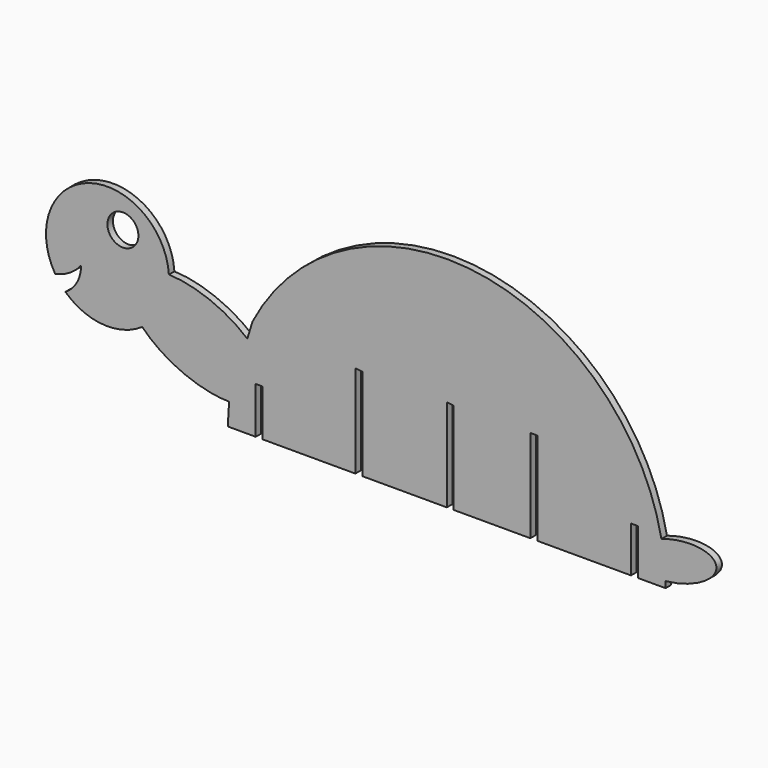
from build123d import *

# Parameters (mm, degrees)
F0_R     = 6.7218070384
F1_DEPTH = 3


with BuildPart() as f1:
    # F0 (on Front) → F1 (new body)
    with BuildSketch(Plane.XZ):
        with BuildLine():
            Line((88.3177022776, 0), (100.3177022776, 0))
            ThreePointArc((100.3177022776, 0), (100.3079795638, 1.3591251166), (100.2788134127, 2.7179720356))
            add(Edge.make_bspline(
                [(100.2788134127, 2.7179720356), (123.5657655158, 4.8702892654), (122.3910548507, 15.4061085671), (121.2163441856, 25.9419278688), (98.5454256048, 18.264490226)],
                knots=[4.3938313667, 4.3938313667, 4.3938313667, 6.2299356796, 6.2299356796, 8.0660399925, 8.0660399925, 8.0660399925], degree=2, weights=[1, 0.6073687139, 1, 0.6073687139, 1]))
            ThreePointArc((98.5454256048, 18.264490226), (18.727568812, 94.0487930785), (-79.0901933214, 43.5925126662))
            Line((-79.0901933214, 43.5925126662), (-81.324518094, 36.2935284559))
            add(Edge.make_bspline(
                [(-81.324518094, 36.2935284559), (-96.3555456344, 49.2548917985), (-115.3992575195, 49.7675132019)],
                knots=[1.0171703019, 1.0171703019, 1.0171703019, 2.2169508045, 2.2169508045, 2.2169508045], degree=2, weights=[1, 0.8253975787, 1]))
            ThreePointArc((-115.3992575195, 49.7675132019), (-150.1771718322, 73.4706329992), (-164.7975034476, 34.0043547921))
            ThreePointArc((-164.7975034476, 34.0043547921), (-158.5722468335, 36.4000030596), (-153.5646075249, 40.8064187332))
            ThreePointArc((-153.5646075249, 40.8064187332), (-155.3258998068, 33.776792282), (-160.3342899704, 28.5390612356))
            ThreePointArc((-160.3342899704, 28.5390612356), (-144.0915360093, 21.3846369828), (-126.9502992551, 25.9879884968))
            add(Edge.make_bspline(
                [(-126.9502992551, 25.9879884968), (-111.6991389355, 9.8614953801), (-89.1887701705, 9.6709185409)],
                knots=[4.0125769571, 4.0125769571, 4.0125769571, 5.3843103584, 5.3843103584, 5.3843103584], degree=2, weights=[1, 0.7738704182, 1]))
            ThreePointArc((-89.1887701705, 9.6709185409), (-89.5588356087, 4.8417516166), (-89.6822977224, 0))
            Line((-89.6822977224, 0), (-77.6822977224, 0))
            Line((-77.6822977224, 0), (-77.6822977224, 20.2259942889))
            Line((-77.6822977224, 20.2259942889), (-74.6822977224, 20.2259942889))
            Line((-74.6822977224, 20.2259942889), (-74.6822977224, 0))
            Line((-74.6822977224, 0), (-34.3945622444, 0))
            Line((-34.3945622444, 0), (-34.3945622444, 40.2805954218))
            Line((-34.3945622444, 40.2805954218), (-31.3945622444, 39.9287603796))
            Line((-31.3945622444, 39.9287603796), (-31.3945622444, 0))
            Line((-31.3945622444, 0), (5.3177022776, 0))
            Line((5.3177022776, 0), (5.3177022776, 40.2805954218))
            Line((5.3177022776, 40.2805954218), (8.3177022776, 39.9287603796))
            Line((8.3177022776, 39.9287603796), (8.3177022776, 0))
            Line((8.3177022776, 0), (41.6018255055, 0))
            Line((41.6018255055, 0), (41.6018255055, 40.2805954218))
            Line((41.6018255055, 40.2805954218), (44.6018255055, 40.2805954218))
            Line((44.6018255055, 40.2805954218), (44.6018255055, 0))
            Line((44.6018255055, 0), (85.3177022776, 0))
            Line((85.3177022776, 0), (85.3177022776, 19.8741611093))
            Line((85.3177022776, 19.8741611093), (88.3177022776, 19.8741611093))
            Line((88.3177022776, 19.8741611093), (88.3177022776, 0))
        make_face()
        with Locations((-135.3712379932, 60.3351965547)):
            Circle(F0_R, mode=Mode.SUBTRACT)
    extrude(amount=F1_DEPTH)


solid = f1.part
